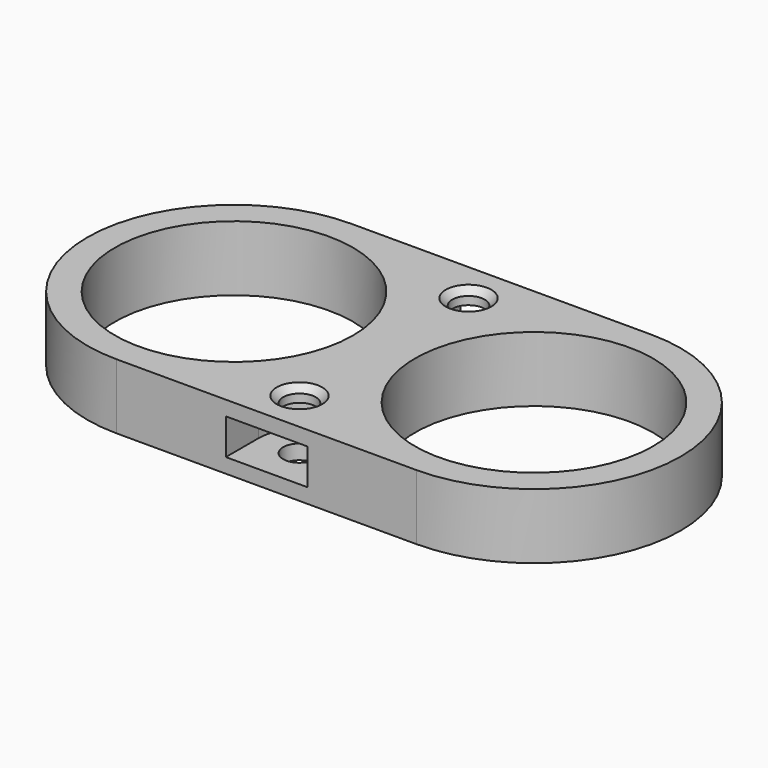
from build123d import *

# Parameters (mm, degrees)
SKETCH007_R   = 18.25
SKETCH007_R_2 = 2.5
PAD002_DEPTH  = 5
POCKET_DEPTH  = 2.75
CHAMFER_SIZE  = 1


with BuildPart() as part:
    # Sketch007 → Pad002 (new body, symmetric)
    with BuildSketch(Plane.XY):
        with BuildLine():
            ThreePointArc((0, 22.5), (-22.5, 0), (0, -22.5))
            Line((0, -22.5), (46, -22.5))
            ThreePointArc((46, -22.5), (68.5, 0), (46, 22.5))
            Line((0, 22.5), (46, 22.5))
        make_face()
        Circle(SKETCH007_R, mode=Mode.SUBTRACT)
        with Locations((46, 0)):
            Circle(SKETCH007_R, mode=Mode.SUBTRACT)
        with Locations((23, 16.2)):
            Circle(SKETCH007_R_2, mode=Mode.SUBTRACT)
        with Locations((23, -16.2)):
            Circle(SKETCH007_R_2, mode=Mode.SUBTRACT)
    extrude(amount=PAD002_DEPTH, both=True)

    # Sketch069 → Pocket (cut, symmetric)
    with BuildSketch(Plane.XY):
        with BuildLine():
            Line((29.25, 55.400131), (29.25, 16.2))
            ThreePointArc((16.75, 16.2), (23, 9.95), (29.25, 16.2))
            Line((16.75, 16.2), (16.75, 45.38327))
            Line((16.75, 45.38327), (-33.812714, 45.38327))
            Line((-33.812714, 45.38327), (-33.812714, -45.794624))
            Line((-33.812714, -45.794624), (16.75, -45.794624))
            Line((16.75, -16.2), (16.75, -45.794624))
            ThreePointArc((29.25, -16.2), (23, -9.95), (16.75, -16.2))
            Line((29.25, -53.709297), (29.25, -16.2))
            Line((29.25, -53.709297), (-45.873169, -53.709297))
            Line((-45.873169, -53.709297), (-45.873169, 55.400131))
            Line((-45.873169, 55.400131), (29.25, 55.400131))
        make_face()
    extrude(amount=POCKET_DEPTH, both=True, mode=Mode.SUBTRACT)

    # Chamfer
    chamfer_edges = [part.edges().sort_by_distance(p)[0] for p in [
        (20.5, 16.2, 5),
        (20.5, -16.2, 5),
    ]]
    chamfer(chamfer_edges, length=CHAMFER_SIZE)


solid = part.part
